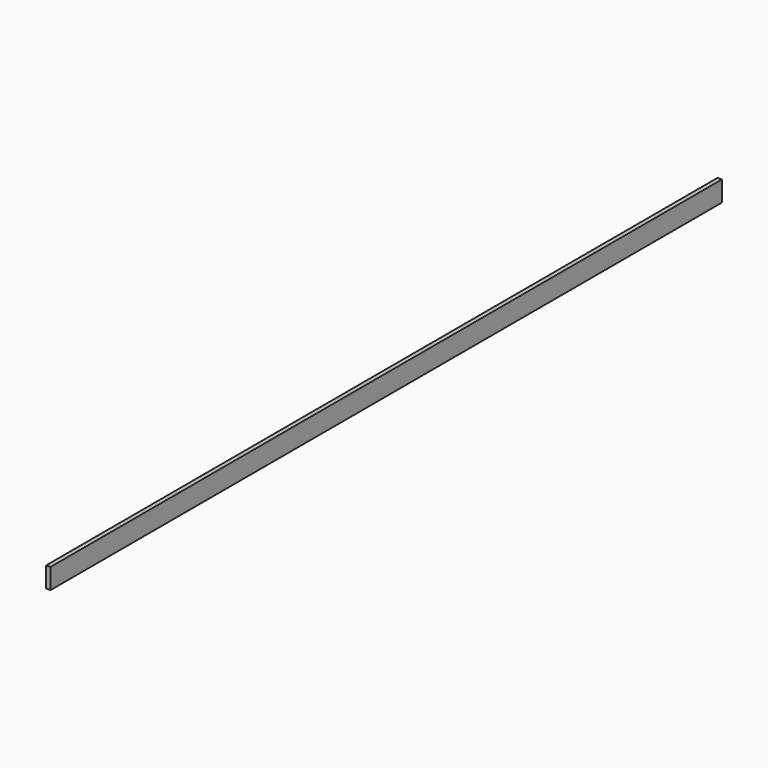
from build123d import *

# Parameters (mm, degrees)
F0_W     = 19.05
F0_H     = 88.9
F1_DEPTH = 1130.3
F2_DEPTH = 1828.8


with BuildPart() as f1:
    # F0 (on Front) → F1 (new body, symmetric)
    with BuildSketch(Plane.XZ):
        Rectangle(F0_W, F0_H)
    extrude(amount=F1_DEPTH, both=True)


with BuildPart() as f2:
    # F0 (on Front) → F2 (new body, symmetric)
    with BuildSketch(Plane.XZ):
        Rectangle(F0_W, F0_H)
    extrude(amount=F2_DEPTH, both=True)


solid = Compound([f1.part, f2.part])
